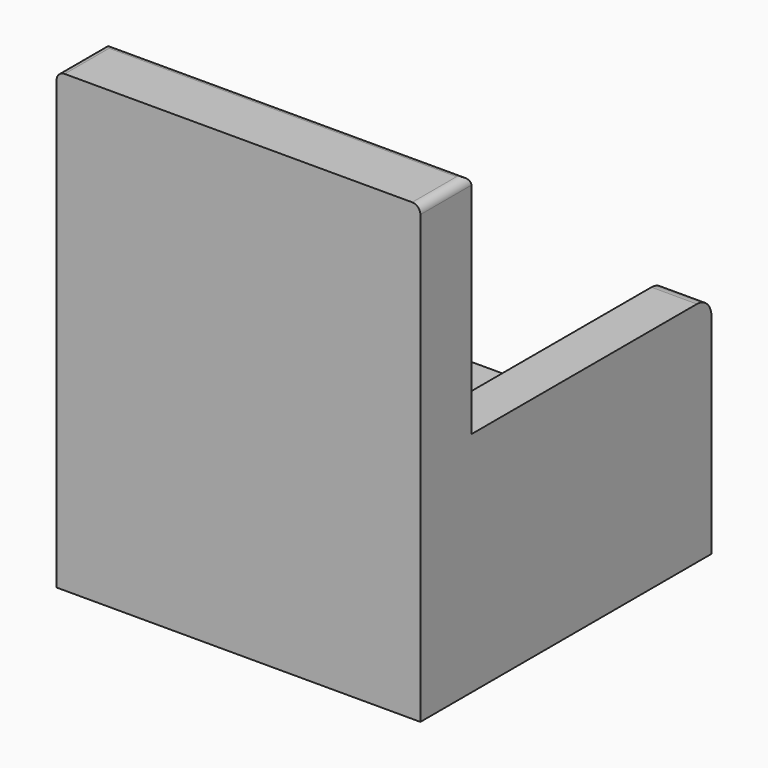
from build123d import *

# Parameters (mm, degrees)
F0_W     = 101.6
F0_H     = 101.6
F1_DEPTH = 25.4
F2_W     = 101.6
F2_H     = 17.786168
F3_DEPTH = 101.6
F4_W     = 12.7
F4_H     = 83.813832
F5_DEPTH = 38.1
F6_R     = 5.08
F7_R     = 5.08
F8_R     = 2.286


with BuildPart() as f1:
    # F0 (on Top) → F1 (new body)
    with BuildSketch(Plane.XY):
        with Locations((0.158782, 3.229056)):
            Rectangle(F0_W, F0_H)
    extrude(amount=F1_DEPTH)

    # F2 (on face) → F3 (join)
    with BuildSketch(Plane.XY.offset(25.4)):
        with Locations((0.158782, -38.67786)):
            Rectangle(F2_W, F2_H)
    extrude(amount=F3_DEPTH)

    # F4 (on face) → F5 (join)
    with BuildSketch(Plane.XY.offset(25.4)):
        with Locations((44.608782, 12.12214)):
            Rectangle(F4_W, F4_H)
        with Locations((-44.291218, 12.12214)):
            Rectangle(F4_W, F4_H)
    extrude(amount=F5_DEPTH)

    # F6
    f6_edges = [f1.edges().sort_by_distance(p)[0] for p in [
        (44.608782, 54.029056, 63.5),
    ]]
    fillet(f6_edges, radius=F6_R)

    # F7
    f7_edges = [f1.edges().sort_by_distance(p)[0] for p in [
        (-44.291218, 54.029056, 63.5),
    ]]
    fillet(f7_edges, radius=F7_R)

    # F8
    f8_edges = [f1.edges().sort_by_distance(p)[0] for p in [
        (0.158782, -29.784776, 127),
        (-50.641218, -38.67786, 127),
        (50.958782, -38.67786, 127),
    ]]
    fillet(f8_edges, radius=F8_R)


solid = f1.part
